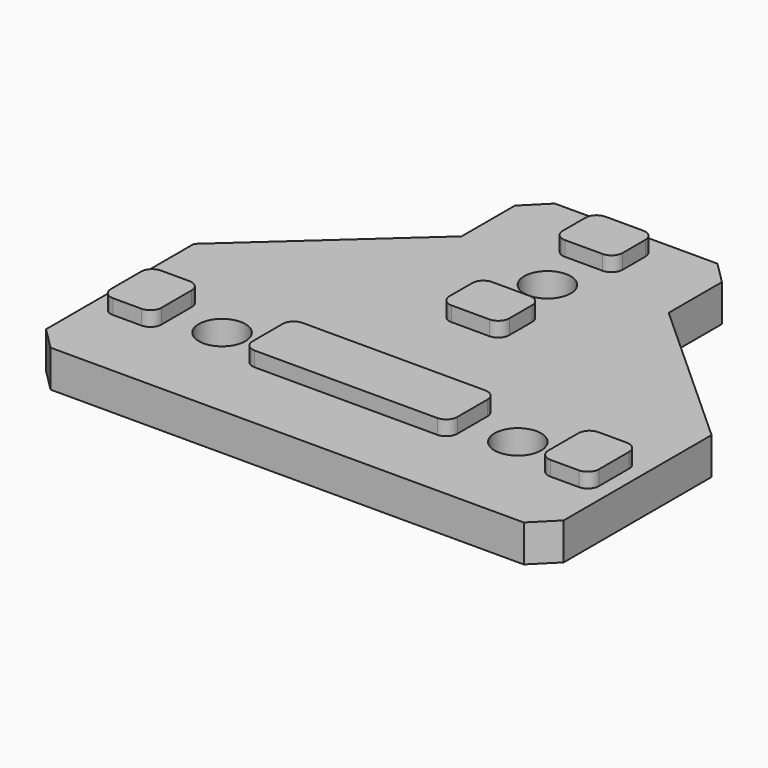
from build123d import *

# Parameters (mm, degrees)
F1_DEPTH = 5
F2_D     = 6.3
F3_SIZE  = 3
F4_W     = 8.1
F4_H     = 6.85
F4_W_2   = 6.85
F4_H_2   = 8.1
F4_W_3   = 27.7
F5_DEPTH = 2
F6_R     = 1.5


with BuildPart() as f1:
    # F0 (on Top) → F1 (new body)
    with BuildSketch(Plane.XY):
        Polygon((-35, 28), (-35, 0), (35, 0), (35, 28), (14, 47), (14, 59), (-14, 59), (-14, 47), align=None)
    extrude(amount=-F1_DEPTH)

    # F2 (through all)
    with Locations(Plane.XY):
        with Locations((20, 14), (-20, 14), (0, 44)):
            Hole(F2_D / 2)

    # F3
    f3_edges = [f1.edges().sort_by_distance(p)[0] for p in [
        (14, 59, -2.5),
        (-14, 59, -2.5),
        (35, 0, -2.5),
        (-35, 0, -2.5),
    ]]
    chamfer(f3_edges, length=F3_SIZE)

    # F4 (on face) → F5 (join)
    with BuildSketch(Plane.XY):
        with Locations((0, 53.575)):
            Rectangle(F4_W, F4_H)
        with Locations((0, 34.425)):
            Rectangle(F4_W, F4_H)
        with Locations((29.575, 14)):
            Rectangle(F4_W_2, F4_H_2)
        with Locations((0, 14)):
            Rectangle(F4_W_3, F4_H_2)
        with Locations((-29.575, 14)):
            Rectangle(F4_W_2, F4_H_2)
    extrude(amount=F5_DEPTH)

    # F6
    f6_edges = [f1.edges().sort_by_distance(p)[0] for p in [
        (-26.15, 9.95, 1),
        (-33, 9.95, 1),
        (-33, 18.05, 1),
        (-26.15, 18.05, 1),
        (-13.85, 9.95, 1),
        (-13.85, 18.05, 1),
        (13.85, 9.95, 1),
        (13.85, 18.05, 1),
        (33, 18.05, 1),
        (33, 9.95, 1),
        (26.15, 9.95, 1),
        (26.15, 18.05, 1),
        (4.05, 31, 1),
        (-4.05, 31, 1),
        (4.05, 37.85, 1),
        (-4.05, 37.85, 1),
        (4.05, 57, 1),
        (4.05, 50.15, 1),
        (-4.05, 57, 1),
        (-4.05, 50.15, 1),
    ]]
    fillet(f6_edges, radius=F6_R)


solid = f1.part
